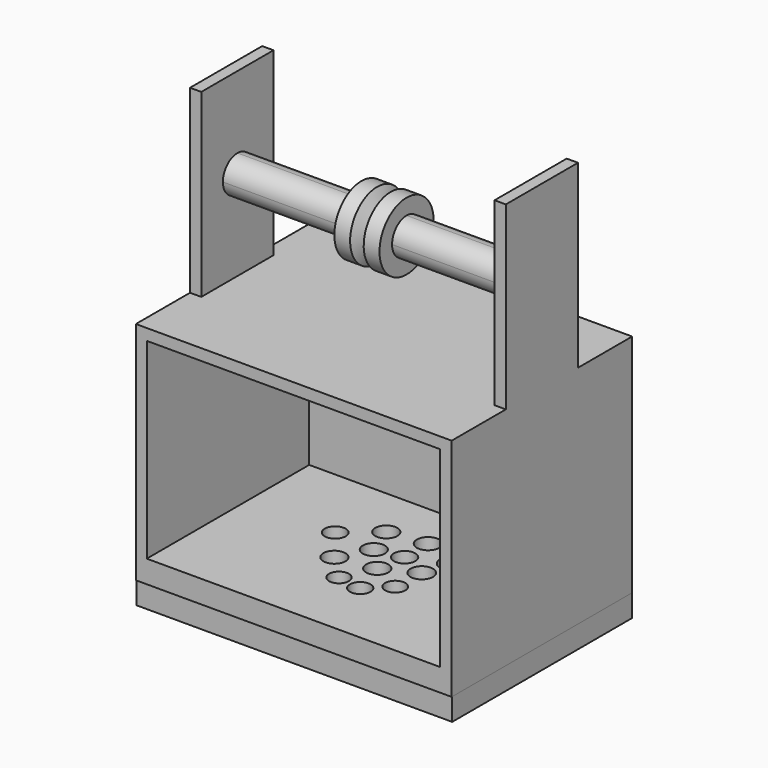
from build123d import *

# Parameters (mm, degrees)
F0_W      = 177.8
F0_H      = 228.6
F1_DEPTH  = 127
F2_W      = 38.1
F2_H      = 101.6
F3_DEPTH  = 177.8
F4_W      = 38.1
F4_H      = 101.6
F5_DEPTH  = 177.8
F6_R      = 6.199251325
F7_DEPTH  = 177.8
F8_W      = 165.1
F8_H      = 50.8
F9_DEPTH  = 101.6
F11_DEPTH = 174.498
F12_W     = 165.2032374404
F12_H     = 107.95
F13_DEPTH = 114.3
F15_R     = 5.6020191421
F16_DEPTH = 25.4
F17_R     = 5.6755182408
F18_DEPTH = 25.4
F19_R     = 6.2324496131
F20_DEPTH = 25.4
F21_R     = 6.232442208
F22_DEPTH = 25.4
F23_R     = 6.1943233013
F24_DEPTH = 25.4
F25_R     = 6.3267373896
F26_DEPTH = 25.4
F27_R     = 5.7686573469
F28_DEPTH = 25.4
F29_R     = 6.0099495699
F30_DEPTH = 25.4
F31_R     = 5.8905425669
F32_DEPTH = 25.4
F33_R     = 6.2038720929
F34_DEPTH = 25.4
F35_R     = 6.3267305002
F36_DEPTH = 25.4
F37_R     = 6.6105067138
F38_DEPTH = 25.4
F40_R     = 19.05
F40_R_2   = 10.1933204062
F41_DEPTH = 12.7
F42_W     = 177.6115447283
F42_H     = 126.4018714428
F43_DEPTH = 12.7


with BuildPart() as f1:
    # F0 (on Front) → F1 (new body)
    with BuildSketch(Plane.XZ):
        with Locations((88.9, 114.3)):
            Rectangle(F0_W, F0_H)
    extrude(amount=F1_DEPTH)

    # F2 (on face) → F3 (cut)
    with BuildSketch(Plane.YZ.offset(177.8)):
        with Locations((-107.95, 177.8)):
            Rectangle(F2_W, F2_H)
    extrude(amount=-F3_DEPTH, mode=Mode.SUBTRACT)

    # F4 (on face) → F5 (cut)
    with BuildSketch(Plane.YZ.offset(177.8)):
        with Locations((-19.05, 177.8)):
            Rectangle(F4_W, F4_H)
    extrude(amount=-F5_DEPTH, mode=Mode.SUBTRACT)

    # F6 (on face) → F7 (join)
    with BuildSketch(Plane(origin=(0, 0, 0), x_dir=(0, -1, 0), z_dir=(-1, 0, 0))):
        with Locations((61.0702037811, 211.2230211496)):
            Circle(F6_R)
    extrude(amount=-F7_DEPTH)

    # F8 (on face) → F9 (cut)
    with BuildSketch(Plane.XY.offset(228.6)):
        with Locations((88.9, -63.5)):
            Rectangle(F8_W, F8_H)
    extrude(amount=-F9_DEPTH, mode=Mode.SUBTRACT)

    # F10 (on face) → F11 (join)
    with BuildSketch(Plane.YZ.offset(177.8)):
        with BuildLine():
            Line((-63.5, 177.8), (-63.5, 187.9933204062))
            ThreePointArc((-63.5, 187.9933204062), (-70.707765982, 185.007765982), (-73.6933204062, 177.8))
            Line((-73.6933204062, 177.8), (-63.5, 177.8))
        make_face()
        with BuildLine():
            Line((-63.5, 167.6066795938), (-63.5, 177.8))
            Line((-63.5, 177.8), (-73.6933204062, 177.8))
            ThreePointArc((-73.6933204062, 177.8), (-70.707765982, 170.592234018), (-63.5, 167.6066795938))
        make_face()
        with BuildLine():
            Line((-53.3066795938, 177.8), (-63.5, 177.8))
            Line((-63.5, 177.8), (-63.5, 167.6066795938))
            ThreePointArc((-63.5, 167.6066795938), (-56.292234018, 170.592234018), (-53.3066795938, 177.8))
        make_face()
        with BuildLine():
            ThreePointArc((-53.3066795938, 177.8), (-56.292234018, 185.007765982), (-63.5, 187.9933204062))
            Line((-63.5, 187.9933204062), (-63.5, 177.8))
            Line((-63.5, 177.8), (-53.3066795938, 177.8))
        make_face()
    extrude(amount=-F11_DEPTH)

    # F12 (on face) → F13 (cut)
    with BuildSketch(Plane.XZ.offset(127)):
        with Locations((88.7493521441, 66.675)):
            Rectangle(F12_W, F12_H)
    extrude(amount=-F13_DEPTH, mode=Mode.SUBTRACT)

    # F15 (on face) → F16 (cut)
    with BuildSketch(Plane(origin=(0, 0, 0), x_dir=(1, 0, 0), z_dir=(0, 0, -1))):
        with Locations((83.3201929927, 88.2035493851)):
            Circle(F15_R)
    extrude(amount=-F16_DEPTH, mode=Mode.SUBTRACT)

    # F17 (on face) → F18 (cut)
    with BuildSketch(Plane(origin=(0, 0, 0), x_dir=(1, 0, 0), z_dir=(0, 0, -1))):
        with Locations((108.0974861979, 79.6003267169)):
            Circle(F17_R)
    extrude(amount=-F18_DEPTH, mode=Mode.SUBTRACT)

    # F19 (on face) → F20 (cut)
    with BuildSketch(Plane(origin=(0, 0, 0), x_dir=(1, 0, 0), z_dir=(0, 0, -1))):
        with Locations((91.0604074597, 70.961818099)):
            Circle(F19_R)
    extrude(amount=-F20_DEPTH, mode=Mode.SUBTRACT)

    # F21 (on face) → F22 (cut)
    with BuildSketch(Plane(origin=(0, 0, 0), x_dir=(1, 0, 0), z_dir=(0, 0, -1))):
        with Locations((69.7244107723, 74.4031071663)):
            Circle(F21_R)
    extrude(amount=-F22_DEPTH, mode=Mode.SUBTRACT)

    # F23 (on face) → F24 (cut)
    with BuildSketch(Plane(origin=(0, 0, 0), x_dir=(1, 0, 0), z_dir=(0, 0, -1))):
        with Locations((78.6717683077, 57.8849166632)):
            Circle(F23_R)
    extrude(amount=-F24_DEPTH, mode=Mode.SUBTRACT)

    # F25 (on face) → F26 (cut)
    with BuildSketch(Plane(origin=(0, 0, 0), x_dir=(1, 0, 0), z_dir=(0, 0, -1))):
        with Locations((108.9551225305, 62.0144642889)):
            Circle(F25_R)
    extrude(amount=-F26_DEPTH, mode=Mode.SUBTRACT)

    # F27 (on face) → F28 (cut)
    with BuildSketch(Plane(origin=(0, 0, 0), x_dir=(1, 0, 0), z_dir=(0, 0, -1))):
        with Locations((96.9106033444, 90.2330502868)):
            Circle(F27_R)
    extrude(amount=-F28_DEPTH, mode=Mode.SUBTRACT)

    # F29 (on face) → F30 (cut)
    with BuildSketch(Plane(origin=(0, 0, 0), x_dir=(1, 0, 0), z_dir=(0, 0, -1))):
        with Locations((93.8134491444, 55.1318824291)):
            Circle(F29_R)
    extrude(amount=-F30_DEPTH, mode=Mode.SUBTRACT)

    # F31 (on face) → F32 (cut)
    with BuildSketch(Plane(origin=(0, 0, 0), x_dir=(1, 0, 0), z_dir=(0, 0, -1))):
        with Locations((55.2709922194, 55.8201409876)):
            Circle(F31_R)
    extrude(amount=-F32_DEPTH, mode=Mode.SUBTRACT)

    # F33 (on face) → F34 (cut)
    with BuildSketch(Plane(origin=(0, 0, 0), x_dir=(1, 0, 0), z_dir=(0, 0, -1))):
        with Locations((72.4774450064, 41.3667224348)):
            Circle(F33_R)
    extrude(amount=-F34_DEPTH, mode=Mode.SUBTRACT)

    # F35 (on face) → F36 (cut)
    with BuildSketch(Plane(origin=(0, 0, 0), x_dir=(1, 0, 0), z_dir=(0, 0, -1))):
        with Locations((93.8134491444, 38.6136882007)):
            Circle(F35_R)
    extrude(amount=-F36_DEPTH, mode=Mode.SUBTRACT)

    # F37 (on face) → F38 (cut)
    with BuildSketch(Plane(origin=(0, 0, 0), x_dir=(1, 0, 0), z_dir=(0, 0, -1))):
        with Locations((113.7729287148, 46.8727871776)):
            Circle(F37_R)
    extrude(amount=-F38_DEPTH, mode=Mode.SUBTRACT)

    # F40 (on offset) → F41 (join, symmetric)
    with BuildSketch(Plane.YZ.offset(88.9)):
        with Locations((-63.5, 177.8)):
            Circle(F40_R)
        with Locations((-63.5, 177.8)):
            Circle(F40_R_2, mode=Mode.SUBTRACT)
    extrude(amount=F41_DEPTH, both=True)

    # F42 (on face) → F43 (join)
    with BuildSketch(Plane(origin=(0, 0, 0), x_dir=(1, 0, 0), z_dir=(0, 0, -1))):
        with Locations((88.8057723641, 63.2009357214)):
            Rectangle(F42_W, F42_H)
    extrude(amount=F43_DEPTH)

    # F45 (on offset) → F46 (revolve, cut)
    with BuildSketch(Plane.XZ.offset(63.5)):
        Polygon((88.8730700588, 187.96), (92.71, 196.85), (85.0630700588, 196.85), align=None)
    revolve(axis=Axis((88.71205585, -63.5, 177.8), (1, 0, 0)), mode=Mode.SUBTRACT)


solid = f1.part
